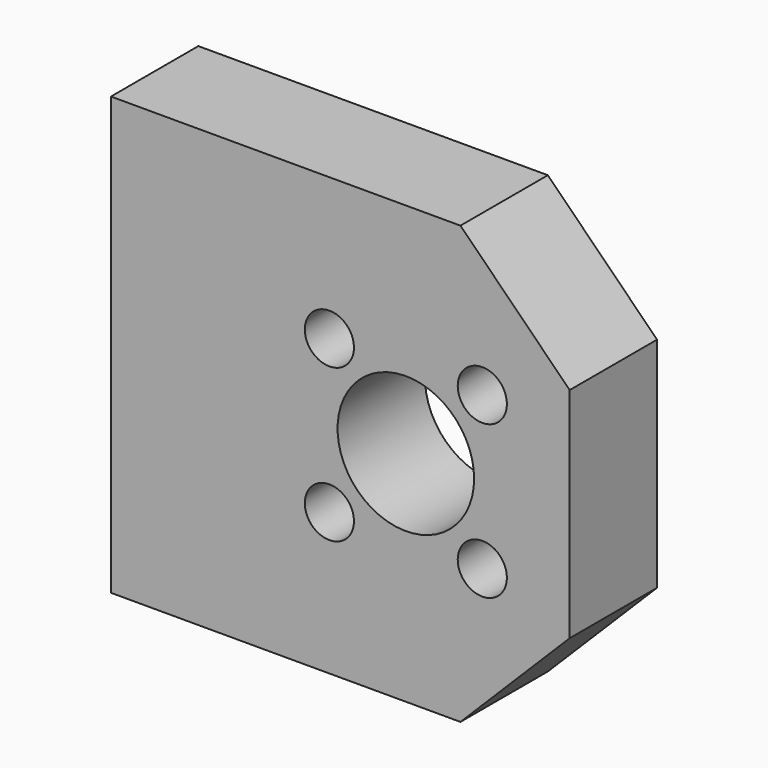
from build123d import *

# Parameters (mm, degrees)
F0_W     = 42
F0_H     = 40
F0_R     = 6.25
F1_DEPTH = 10
F2_SIZE  = 10
F4_D     = 4.5
F6_D     = 6.6
F6_DEPTH = 10
F6_TIP   = 1.9828400428


with BuildPart() as f1:
    # F0 (on Front) → F1 (new body)
    with BuildSketch(Plane.XZ):
        Rectangle(F0_W, F0_H)
        with Locations((6, 0)):
            Circle(F0_R, mode=Mode.SUBTRACT)
    extrude(amount=F1_DEPTH)

    # F2
    f2_edges = [f1.edges().sort_by_distance(p)[0] for p in [
        (21, -5, 20),
        (21, -5, -20),
    ]]
    chamfer(f2_edges, length=F2_SIZE)

    # F4 (through all)
    with Locations(Plane.XZ.offset(10)):
        with Locations((-1, 7), (-1, -7), (13, -7), (13, 7)):
            Hole(F4_D / 2)

    # F6
    with Locations(Plane(origin=(-21, 0, 0), x_dir=(0, -1, 0), z_dir=(-1, 0, 0))):
        with Locations((5, 15), (5, -15)):
            Hole(F6_D / 2, depth=F6_DEPTH)
            with Locations((0, 0, -(F6_DEPTH + F6_TIP / 2))):  # 118° drill point
                Cone(0, F6_D / 2, F6_TIP, mode=Mode.SUBTRACT)


solid = f1.part
